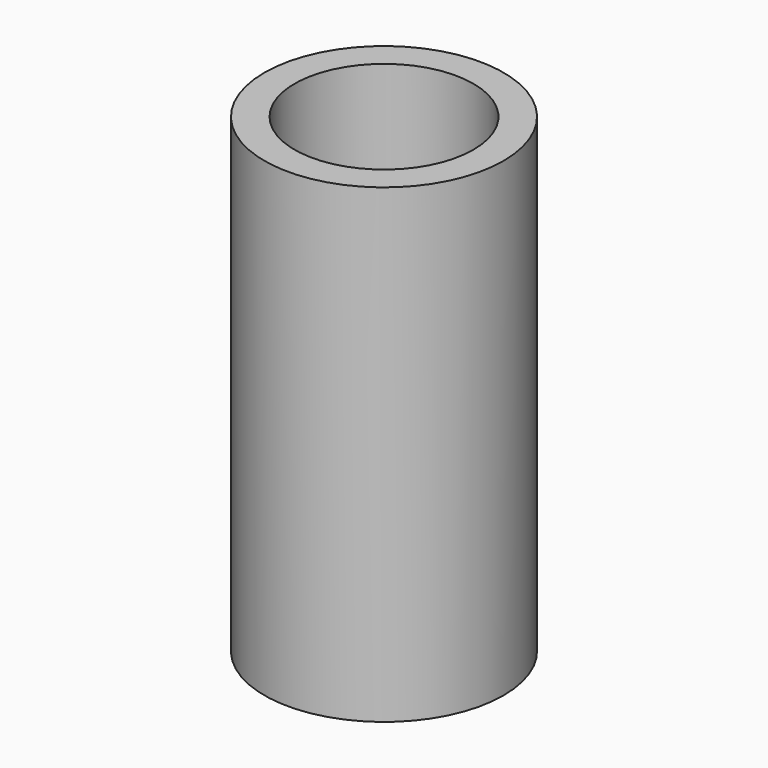
from build123d import *

# Parameters (mm, degrees)
SKETCH_R     = 12.7
SKETCH_R_2   = 5.5
PAD_DEPTH    = 50
SKETCH001_R  = 9.5
POCKET_DEPTH = 49


with BuildPart() as part:
    # Sketch → Pad (new body)
    with BuildSketch(Plane.XY):
        Circle(SKETCH_R)
        Circle(SKETCH_R_2, mode=Mode.SUBTRACT)
    extrude(amount=PAD_DEPTH)

    # Sketch001 (on Face4 of Pad) → Pocket (cut)
    with BuildSketch(Plane.XY.offset(50)):
        Circle(SKETCH001_R)
    extrude(amount=-POCKET_DEPTH, mode=Mode.SUBTRACT)


solid = part.part
